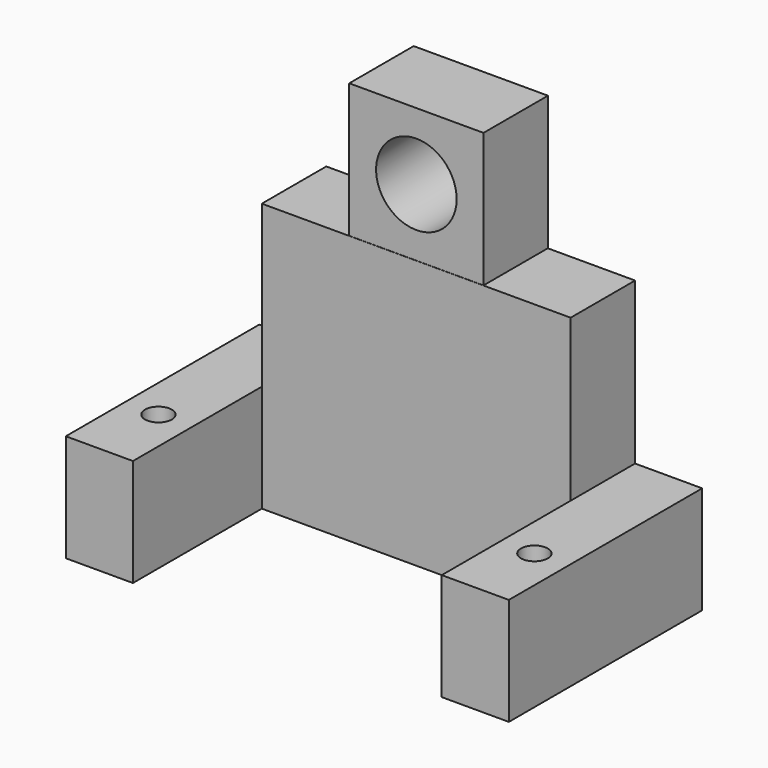
from build123d import *

# Parameters (mm, degrees)
F0_R     = 1
F1_DEPTH = 8
F0_W     = 23
F0_H     = 6
F2_DEPTH = 20
F4_START = -1.8
F3_W     = 10
F3_H     = 10
F3_R     = 3
F4_DEPTH = 6


with BuildPart() as f1:
    # F0 (on Top) → F1 (new body)
    with BuildSketch(Plane.XY):
        Polygon((-11.5, 1.7857142857), (-11.5, 7.7857142857), (-16.5, 7.7857142857), (-16.5, -10.2142857143), (-11.5, -10.2142857143), align=None)
        with Locations((-14, -4.7142857143)):
            Circle(F0_R, mode=Mode.SUBTRACT)
    extrude(amount=F1_DEPTH)



with BuildPart() as f1b:
    # F0 (on Top) → F1, piece 2 (new body)
    with BuildSketch(Plane.XY):
        Polygon((16.5, 7.7857142857), (11.5, 7.7857142857), (11.5, 1.7857142857), (11.5, -10.2142857143), (16.5, -10.2142857143), align=None)
        with Locations((14, -4.7142857143)):
            Circle(F0_R, mode=Mode.SUBTRACT)
    extrude(amount=F1_DEPTH)


with BuildPart() as f1_1:
    add(f1.part)

    add(f1b.part)  # F2 merges F1b
    # F0 (on Top) → F2 (join)
    with BuildSketch(Plane.XY):
        with Locations((0, 4.7857142857)):
            Rectangle(F0_W, F0_H)
    extrude(amount=F2_DEPTH)

    # F3 (on Front) → F4 (join)
    with BuildSketch(Plane.XZ.offset(F4_START)):
        with Locations((0, 25)):
            Rectangle(F3_W, F3_H)
        with Locations((0, 25)):
            Circle(F3_R, mode=Mode.SUBTRACT)
    extrude(amount=-F4_DEPTH)


solid = f1_1.part
